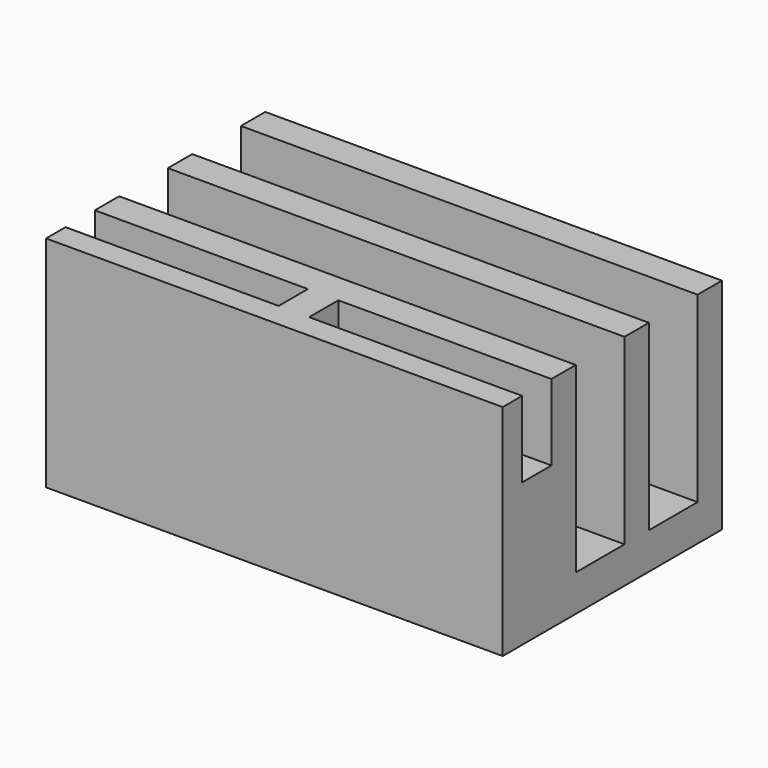
from build123d import *

# Parameters (mm, degrees)
F0_W     = 150
F0_H     = 90
F1_DEPTH = 72
F2_W     = 70
F2_H     = 12
F3_DEPTH = 25
F4_W     = 150
F4_H     = 20
F5_DEPTH = 60


with BuildPart() as f1:
    # F0 (on Top) → F1 (new body)
    with BuildSketch(Plane.XY):
        Rectangle(F0_W, F0_H)
    extrude(amount=F1_DEPTH)

    # F2 (on face) → F3 (cut)
    with BuildSketch(Plane.XY.offset(72)):
        with Locations((-40, -31)):
            Rectangle(F2_W, F2_H)
        with Locations((40, -31)):
            Rectangle(F2_W, F2_H)
    extrude(amount=-F3_DEPTH, mode=Mode.SUBTRACT)

    # F4 (on face) → F5 (cut)
    with BuildSketch(Plane.XY.offset(72)):
        with Locations((0, 25)):
            Rectangle(F4_W, F4_H)
        with Locations((0, -5)):
            Rectangle(F4_W, F4_H)
    extrude(amount=-F5_DEPTH, mode=Mode.SUBTRACT)


solid = f1.part
